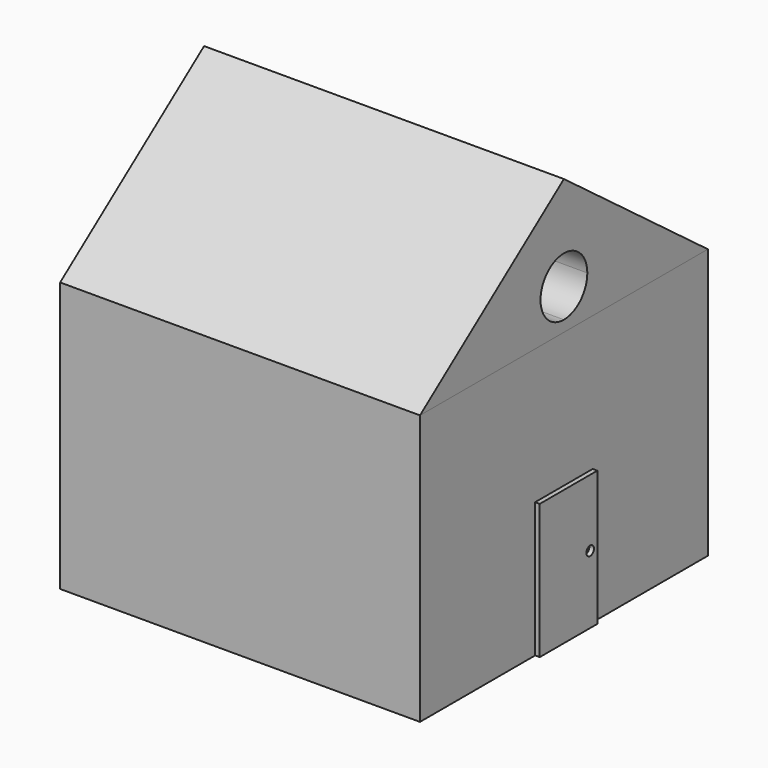
from build123d import *

# Parameters (mm, degrees)
F0_W          = 101.6
F0_H          = 76.2
F2_DEPTH      = 50.8
F2_DEPTH_BACK = 50.8
F3_W          = 20.32
F3_H          = 38.1
F3_R          = 1.3294008676
F4_DEPTH      = 1.30048


with BuildPart() as f2:
    # F0 (on Right) → F2 (new body, two sides)
    with BuildSketch(Plane.YZ) as f2_sk:
        Rectangle(F0_W, F0_H)
    extrude(amount=F2_DEPTH)
    extrude(f2_sk.sketch, amount=-F2_DEPTH_BACK)

    # F3 (on face) → F4 (join)
    with BuildSketch(Plane.YZ.offset(50.8)):
        with Locations((0, -19.05)):
            Rectangle(F3_W, F3_H)
        with Locations((7.6507260092, -18.8963711262)):
            Circle(F3_R, mode=Mode.SUBTRACT)
    extrude(amount=F4_DEPTH)


with BuildPart() as f2b:
    # F1 (on face) → F2, piece 2 (new body, two sides)
    with BuildSketch(Plane.YZ) as f2_2_sk:
        Polygon((0, 76.2), (-50.8, 38.1), (50.8, 38.1), align=None)
        with BuildLine():
            ThreePointArc((0, 57.7408315491), (5.8382487534, 55.3225497349), (8.2565305675, 49.4843009816))
            ThreePointArc((8.2565305675, 49.4843009816), (5.8382487534, 43.6460522282), (0, 41.2277704141))
            ThreePointArc((0, 41.2277704141), (-5.8382487534, 43.6460522282), (-8.2565305675, 49.4843009816))
            ThreePointArc((-8.2565305675, 49.4843009816), (-5.8382487534, 55.3225497349), (0, 57.7408315491))
        make_face(mode=Mode.SUBTRACT)
    extrude(amount=F2_DEPTH)
    extrude(f2_2_sk.sketch, amount=-F2_DEPTH_BACK)


solid = Compound([f2.part, f2b.part])
